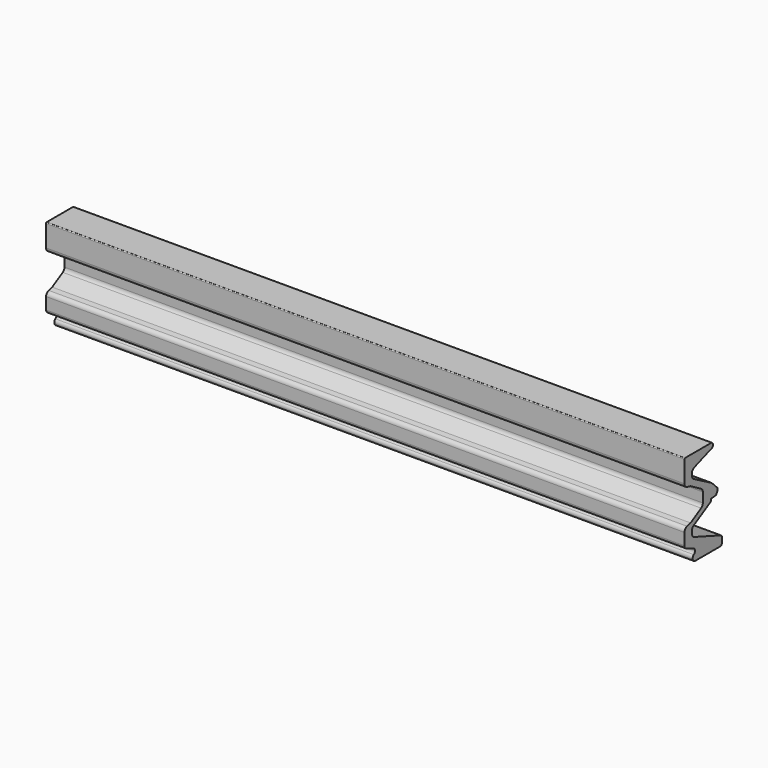
from build123d import *

# Parameters (mm, degrees)
F1_DEPTH = 750


with BuildPart() as f1:
    # F0 (on Right) → F1 (new body, symmetric)
    with BuildSketch(Plane.YZ):
        with BuildLine():
            Line((32, -122), (105, -122))
            ThreePointArc((105, -122), (108.5355339059, -120.5355339059), (110, -117))
            Line((110, -117), (110, -104.5304183065))
            ThreePointArc((110, -104.5304183065), (109.0957602214, -101.6625361247), (106.7101007166, -99.8319552025))
            Line((106.7101007166, -99.8319552025), (28.5797985667, -71.3948508258))
            ThreePointArc((28.5797985667, -71.3948508258), (23.8084795571, -67.7336889814), (22, -61.9979246179))
            Line((22, -61.9979246179), (22, -55.7773730996))
            ThreePointArc((22, -55.7773730996), (23.3411974865, -50.774859828), (27.0050278066, -47.1142182016))
            Line((27.0050278066, -47.1142182016), (76.4989944387, -18.5771563597))
            ThreePointArc((76.4989944387, -18.5771563597), (77.2317605027, -17.8450280344), (77.5, -16.8445253801))
            Line((77.5, -16.8445253801), (77.5, -14.0500428085))
            ThreePointArc((77.5, -14.0500428085), (78.031816786, -12.6919419101), (79.34443805, -12.0561018666))
            Line((79.34443805, -12.0561018666), (91.8312687602, -11.0819126648))
            ThreePointArc((91.8312687602, -11.0819126648), (92.7423605167, -10.7797902328), (93.4077576178, -10.0879717229))
            Line((93.4077576178, -10.0879717229), (97.2320508076, -3.4641016151))
            ThreePointArc((97.2320508076, -3.4641016151), (97.4318516526, -2.9817397053), (97.5, -2.4641016151))
            Line((97.5, -2.4641016151), (97.5, 1.1715728753))
            ThreePointArc((97.5, 1.1715728753), (97.347759065, 1.93693974), (96.9142135624, 2.5857864376))
            Line((96.9142135624, 2.5857864376), (80.3908701189, 19.1091298811))
            ThreePointArc((80.3908701189, 19.1091298811), (79.9770526202, 19.4696932477), (79.5177724194, 19.7702137305))
            Line((79.5177724194, 19.7702137305), (27.0094429083, 49.1929845773))
            ThreePointArc((27.0094429083, 49.1929845773), (23.3446035132, 52.7878671993), (22, 57.742286464))
            Line((22, 57.742286464), (22, 62.9979246179))
            ThreePointArc((22, 62.9979246179), (23.8084795571, 68.7336889814), (28.5797985667, 72.3948508258))
            Line((28.5797985667, 72.3948508258), (79.9621046277, 91.0964807999))
            ThreePointArc((79.9621046277, 91.0964807999), (83.9067681128, 97.9288383748), (77.8631930273, 103))
            Line((77.8631930273, 103), (2, 103))
            ThreePointArc((2, 103), (0.5857864376, 102.4142135624), (0, 101))
            Line((0, 101), (0, 50.307764064))
            ThreePointArc((0, 50.307764064), (2.1179456198, 44.15364197), (7.5746437496, 40.6063390626))
            Line((7.5746437496, 40.6063390626), (18, 38))
            Line((18, 38), (49, 20.1021416551))
            ThreePointArc((49, 20.1021416551), (52.6602540378, 16.4418876173), (54, 11.4418876173))
            Line((54, 11.4418876173), (54, -11.4418876173))
            ThreePointArc((54, -11.4418876173), (52.6602540378, -16.4418876173), (49, -20.1021416551))
            Line((49, -20.1021416551), (18, -38))
            Line((18, -38), (7.5746437496, -40.6063390626))
            ThreePointArc((7.5746437496, -40.6063390626), (2.1179456198, -44.15364197), (0, -50.307764064))
            Line((0, -50.307764064), (0, -78))
            ThreePointArc((0, -78), (1.385033519, -82.4991353008), (5.0605546137, -85.4404073021))
            Line((5.0605546137, -85.4404073021), (25.6120663332, -93.5595926979))
            ThreePointArc((25.6120663332, -93.5595926979), (30.6121205573, -100.0179888304), (27.3363104735, -107.5))
            ThreePointArc((27.3363104735, -107.5), (24.3842268941, -116.4494897428), (32, -122))
        make_face()
    extrude(amount=F1_DEPTH, both=True)


solid = f1.part
